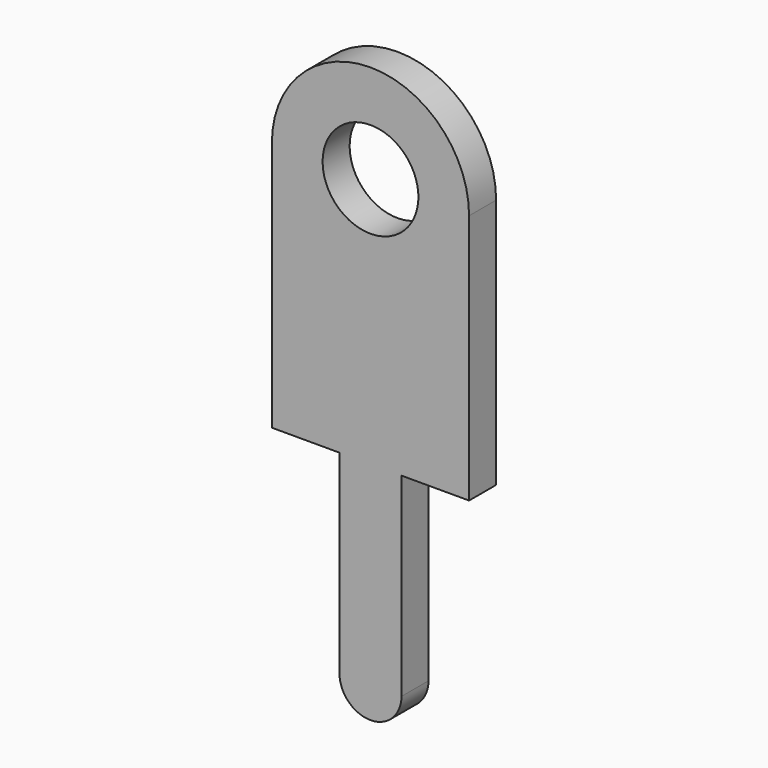
from build123d import *

# Parameters (mm, degrees)
SKETCH_R  = 0.85
PAD_DEPTH = 0.3


with BuildPart() as part:
    # Sketch → Pad (new body, symmetric)
    with BuildSketch(Plane(origin=(0, 0, 0), x_dir=(-1, 0, 0), z_dir=(0, 1, 0))):
        with BuildLine():
            Line((-1.75, 4.45), (-1.75, 0))
            Line((-1.75, 0), (-0.55, 0))
            Line((-0.55, 0), (-0.55, -3.45))
            ThreePointArc((-0.55, -3.45), (0, -4), (0.55, -3.45))
            Line((0.55, 0), (0.55, -3.45))
            Line((0.55, 0), (1.75, 0))
            Line((1.75, 0), (1.75, 4.45))
            ThreePointArc((1.75, 4.45), (0, 6.2), (-1.75, 4.45))
        make_face()
        with Locations((0, 4.45)):
            Circle(SKETCH_R, mode=Mode.SUBTRACT)
    extrude(amount=PAD_DEPTH, both=True)


solid = part.part
